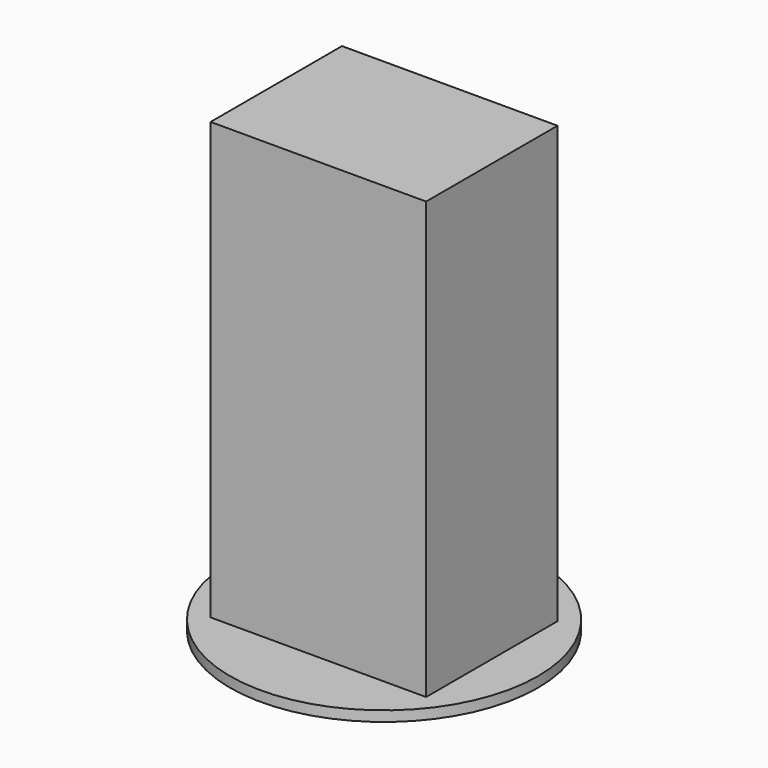
from build123d import *

# Parameters (mm, degrees)
F0_W     = 53.34
F0_H     = 40.64
F1_DEPTH = 107.95
F2_R     = 38.1
F3_DEPTH = 2.54


with BuildPart() as f1:
    # F0 (on Top) → F1 (new body)
    with BuildSketch(Plane.XY):
        Rectangle(F0_W, F0_H)
    extrude(amount=F1_DEPTH)

    # F2 (on face) → F3 (join)
    with BuildSketch(Plane(origin=(0, 0, 0), x_dir=(1, 0, 0), z_dir=(0, 0, -1))):
        Circle(F2_R)
    extrude(amount=F3_DEPTH)


solid = f1.part
